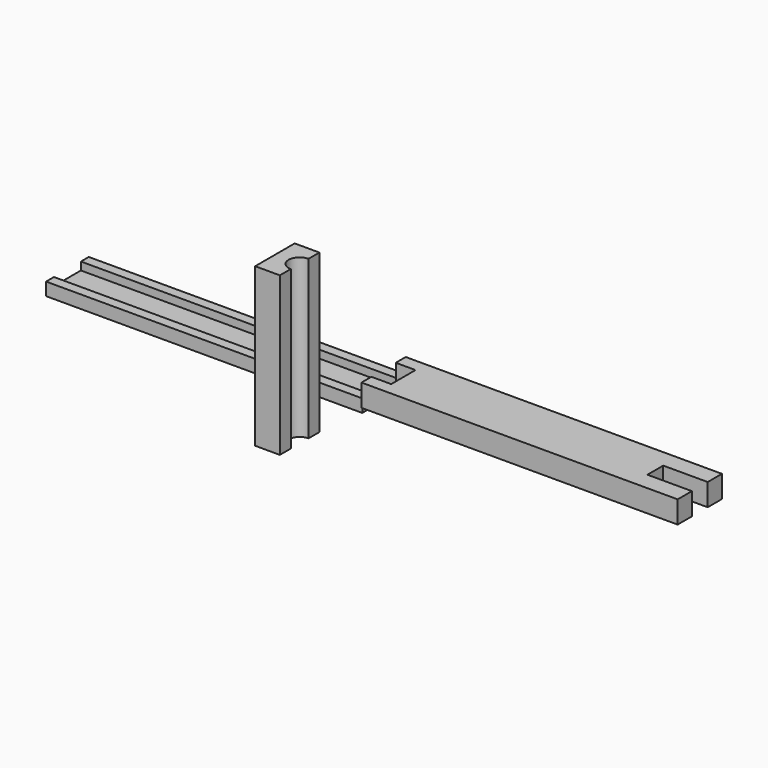
from build123d import *

# Parameters (mm, degrees)
F0_W     = 203.2
F0_H     = 6.35
F1_DEPTH = 3.175
F2_DEPTH = 5.08
F3_DEPTH = 14.2875
F4_DEPTH = 101.6


with BuildPart() as f1:
    # F0 (on Top) → F1 (new body)
    with BuildSketch(Plane.XY):
        with Locations((-101.6, -13.97)):
            Rectangle(F0_W, F0_H)
        Polygon((0, 10.795), (-203.2, 10.795), (-203.2, -10.795), (0, -10.795), (0, -9.779), (0, 9.779), align=None)
        with Locations((-101.6, 13.97)):
            Rectangle(F0_W, F0_H)
    extrude(amount=-F1_DEPTH)

    # F0 (on Top) → F2 (join)
    with BuildSketch(Plane.XY):
        with Locations((-101.6, 13.97)):
            Rectangle(F0_W, F0_H)
        with Locations((-101.6, -13.97)):
            Rectangle(F0_W, F0_H)
    extrude(amount=F2_DEPTH)


with BuildPart() as f3:
    # F0 (on Top) → F3 (new body)
    with BuildSketch(Plane.XY):
        Polygon((0, 17.145), (0, 10.795), (0, 9.779), (12.7, 9.779), (12.7, -9.779), (0, -9.779), (0, -10.795), (0, -17.145), (0, -17.78), (203.2, -17.78), (203.2, -6.35), (174.625, -6.35), (174.625, 6.35), (203.2, 6.35), (203.2, 17.78), (0, 17.78), align=None)
    extrude(amount=F3_DEPTH)


with BuildPart() as f4:
    # F0 (on Top) → F4 (new body)
    with BuildSketch(Plane.XY):
        with BuildLine():
            Line((0, -51.588938), (-15.875, -51.588938))
            Line((-15.875, -51.588938), (-15.875, -83.338938))
            Line((-15.875, -83.338938), (0, -83.338938))
            Line((0, -83.338938), (0, -74.575938))
            ThreePointArc((0, -74.575938), (-7.112, -67.463938), (0, -60.351938))
            Line((0, -60.351938), (0, -51.588938))
        make_face()
    extrude(amount=F4_DEPTH)


solid = Compound([f1.part, f3.part, f4.part])
